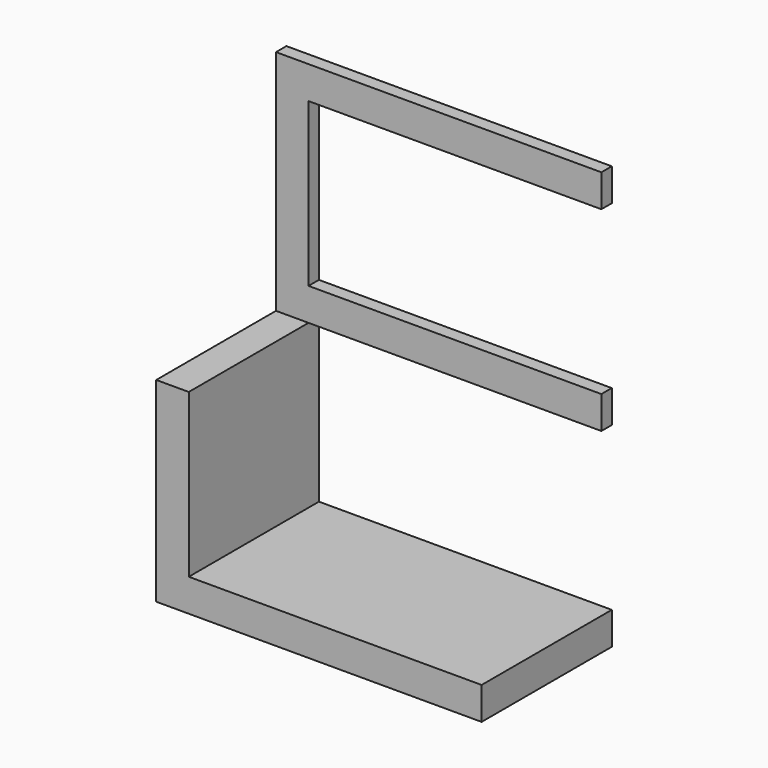
from build123d import *

# Parameters (mm, degrees)
F0_W     = 5
F0_H     = 25
F1_DEPTH = 25
F2_DEPTH = 2


with BuildPart() as f1:
    # F0 (on Front) → F1 (new body)
    with BuildSketch(Plane.XZ):
        Polygon((0, 5), (0, 0), (50, 0), (50, 5), (5, 5), align=None)
        with Locations((2.5, 17.5)):
            Rectangle(F0_W, F0_H)
    extrude(amount=F1_DEPTH)

    # F0 (on Front) → F2 (join)
    with BuildSketch(Plane.XZ):
        Polygon((0, 65), (0, 60), (5, 60), (50, 60), (50, 65), align=None)
        with Locations((2.5, 47.5)):
            Rectangle(F0_W, F0_H)
        Polygon((0, 35), (0, 30), (5, 30), (50, 30), (50, 35), (5, 35), align=None)
    extrude(amount=F2_DEPTH)


solid = f1.part
